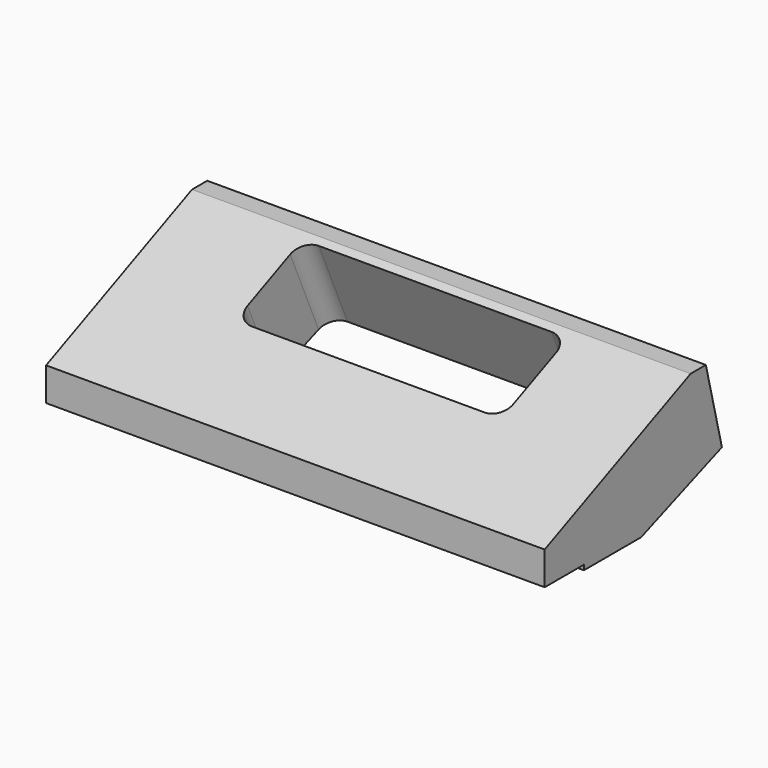
from build123d import *

# Parameters (mm, degrees)
F1_DEPTH = 300
F3_DEPTH = 106


with BuildPart() as f1:
    # F0 (on Right) → F1 (new body)
    with BuildSketch(Plane.YZ):
        Polygon((0, 0), (0, -20), (29.5, -20), (29.5, -23), (72.5, -23), (133.294737, 0), (121.198642, 48.514786), (109.755708, 48.514786), align=None)
    extrude(amount=F1_DEPTH)

    # F2 (on face) → F3 (cut)
    with BuildSketch(Plane(origin=(0, 0, 0), x_dir=(1, 0, 0), z_dir=(0, -0.40429, 0.914631))):
        with BuildLine():
            Line((220, 115), (80, 115))
            ThreePointArc((80, 115), (72.928932, 112.071068), (70, 105))
            Line((70, 105), (70, 70))
            ThreePointArc((70, 70), (72.928932, 62.928932), (80, 60))
            Line((80, 60), (220, 60))
            ThreePointArc((220, 60), (227.071068, 62.928932), (230, 70))
            Line((230, 70), (230, 105))
            ThreePointArc((230, 105), (227.071068, 112.071068), (220, 115))
        make_face()
    extrude(amount=-F3_DEPTH, mode=Mode.SUBTRACT)


solid = f1.part
